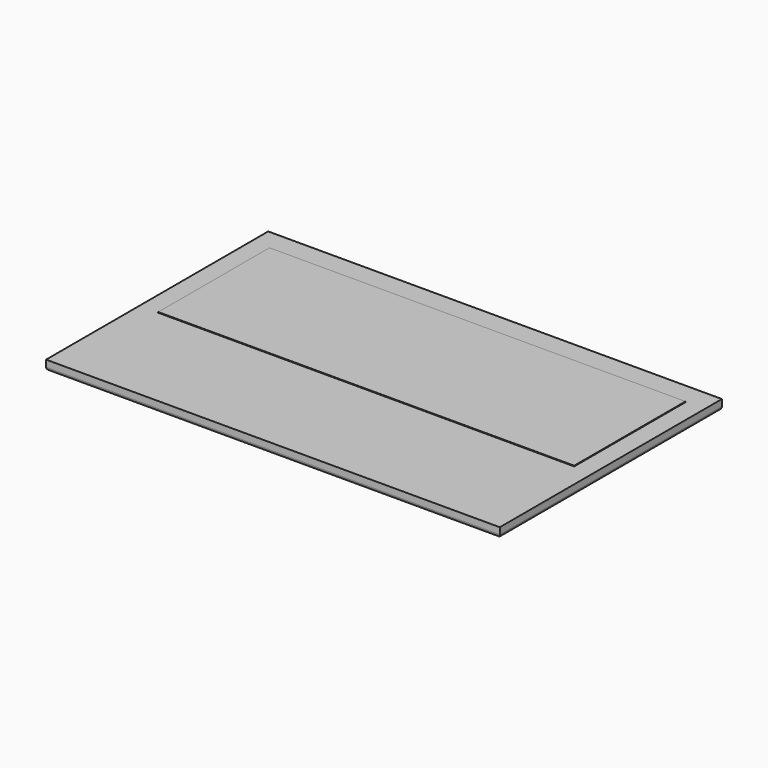
from build123d import *

# Parameters (mm, degrees)
F0_W     = 175.344706
F0_H     = 107.297548
F1_DEPTH = 3.81
F2_R     = 1.27
F3_W     = 73.110506
F3_H     = 41.154918
F4_DEPTH = 2.54
F5_W     = 160.746276
F5_H     = 53.74348
F6_DEPTH = 0.254


with BuildPart() as f1:
    # F0 (on Top) → F1 (new body)
    with BuildSketch(Plane.XY):
        Rectangle(F0_W, F0_H)
    extrude(amount=F1_DEPTH)

    # F2
    f2_edges = [f1.edges().sort_by_distance(p)[0] for p in [
        (87.672353, 0, 0),
        (0, -53.648774, 0),
        (0, 53.648774, 0),
        (-87.672353, 0, 0),
    ]]
    fillet(f2_edges, radius=F2_R)

    # F3 (on face) → F4 (join)
    with BuildSketch(Plane.XY.offset(3.81)):
        with Locations((0, -30.382013)):
            Rectangle(F3_W, F3_H)
    extrude(amount=-F4_DEPTH)

    # F5 (on face) → F6 (join)
    with BuildSketch(Plane.XY.offset(3.81)):
        with Locations((0, 18.277625)):
            Rectangle(F5_W, F5_H)
    extrude(amount=F6_DEPTH)


solid = f1.part
